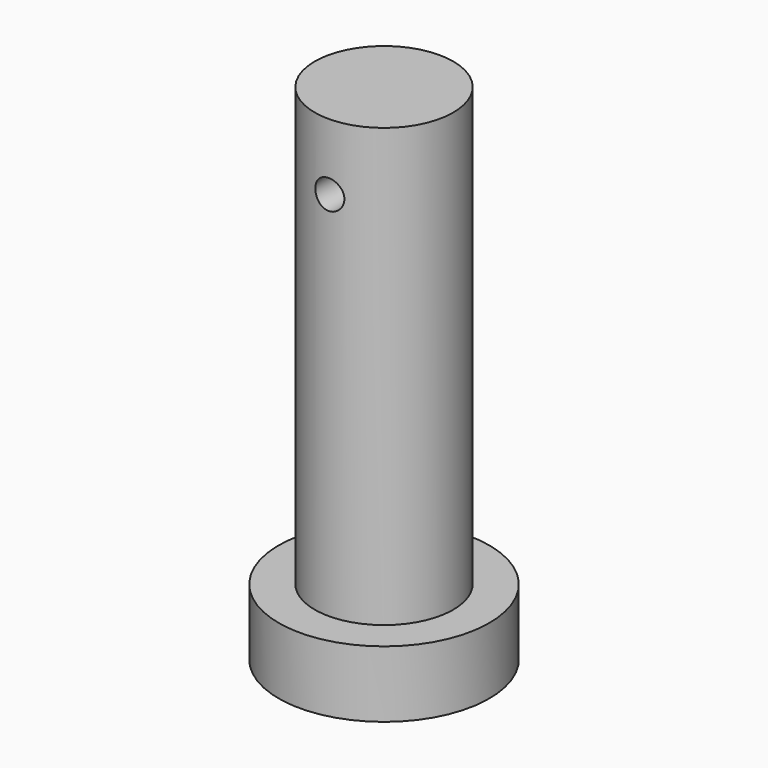
from build123d import *

# Parameters (mm, degrees)
F3_R = 2.81
F5_R = 2.16


with BuildPart() as f1:
    # F0 (on Right) → F1 (revolve)
    with BuildSketch(Plane.YZ):
        Polygon((12.5, 45.5), (0, 45.5), (0, -45.5), (19, -45.5), (19, -33.5), (12.5, -33.5), (12.5, 27.5), (12.5, 39.5), align=None)
    revolve(axis=Axis((0, 0, -1.919575), (0, 0, -1)))

    # F3 (on offset) → F6 section 0
    with BuildSketch(Plane.XZ.offset(29)):
        with Locations((0, 33.5)):
            Circle(F3_R)
    # F5 (on offset) → F6 section 1
    with BuildSketch(Plane.XZ.offset(-29)):
        with Locations((0, 33.5)):
            Circle(F5_R)
    loft(mode=Mode.SUBTRACT)


solid = f1.part
